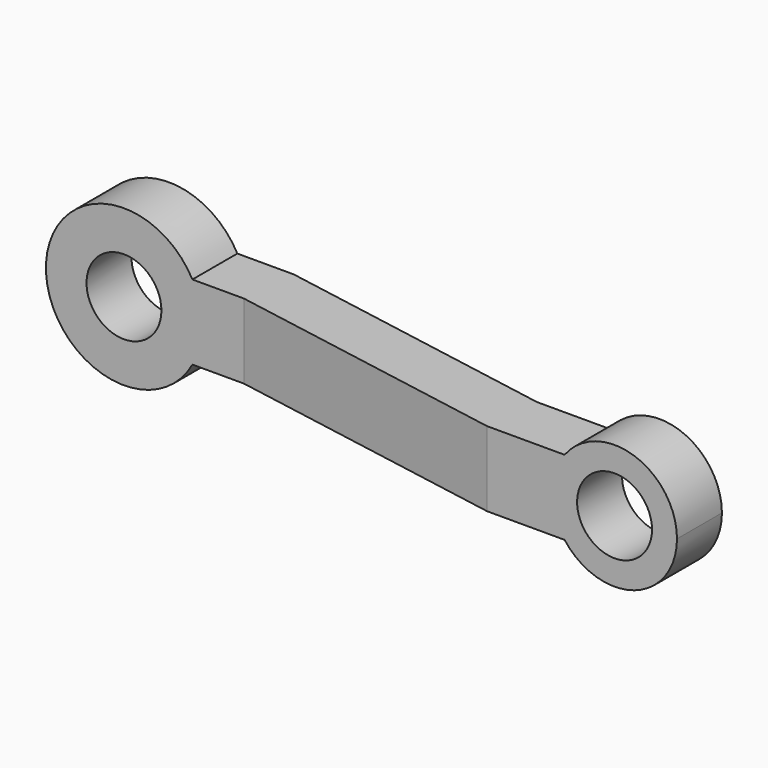
from build123d import *

# Parameters (mm, degrees)
F0_R     = 6
F1_DEPTH = 25
F3_DEPTH = 12.5


with BuildPart() as f1:
    # F0 (on Front) → F1 (new body)
    with BuildSketch(Plane.XZ):
        with BuildLine():
            ThreePointArc((10.965856, 6), (12.110392, 3.096514), (12.5, 0))
            ThreePointArc((12.5, 0), (12.110392, -3.096514), (10.965856, -6))
            Line((10.965856, -6), (77, -6))
            ThreePointArc((77, -6), (75, 0), (77, 6))
            Line((77, 6), (10.965856, 6))
        make_face()
        with BuildLine():
            ThreePointArc((95, 0), (88.162278, 9.486833), (77, 6))
            ThreePointArc((77, 6), (75, 0), (77, -6))
            ThreePointArc((77, -6), (88.162278, -9.486833), (95, 0))
        make_face()
        with Locations((85, 0)):
            Circle(F0_R, mode=Mode.SUBTRACT)
        with BuildLine():
            ThreePointArc((10.965856, -6), (12.110392, -3.096514), (12.5, 0))
            ThreePointArc((12.5, 0), (12.110392, 3.096514), (10.965856, 6))
            ThreePointArc((10.965856, 6), (-12.5, 0), (10.965856, -6))
        make_face()
        Circle(F0_R, mode=Mode.SUBTRACT)
    extrude(amount=F1_DEPTH)

    # F2 (on Top) → F3 (intersect, symmetric)
    with BuildSketch(Plane.XY):
        Polygon((20, 0), (-12.5, 0), (-12.5, -9), (19.212602, -9), (64.582857, -17), (95, -17), (95, -8), (65.370255, -8), align=None)
    extrude(amount=F3_DEPTH, both=True, mode=Mode.INTERSECT)


solid = f1.part
